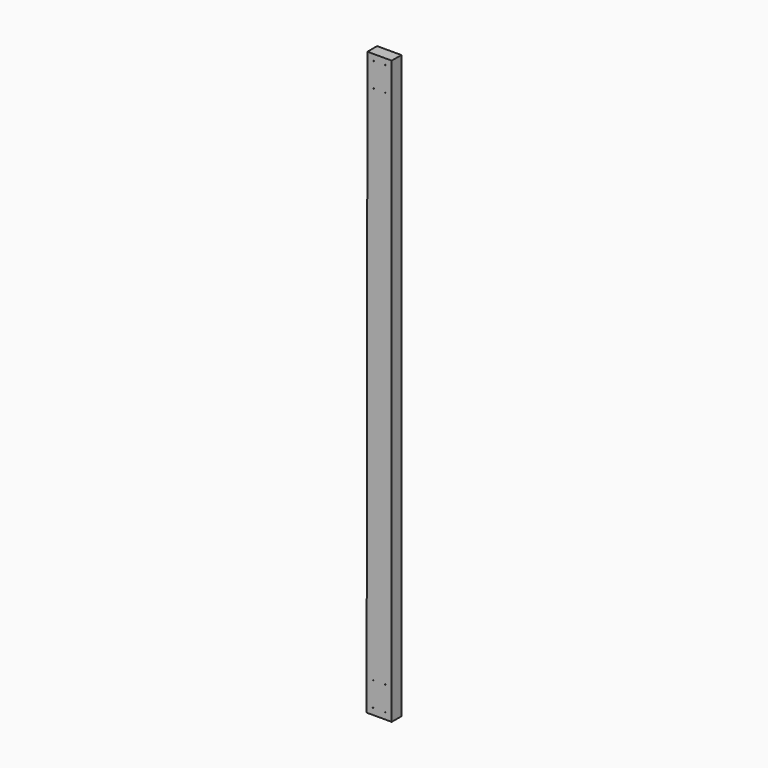
from build123d import *

# Parameters (mm, degrees)
F0_R     = 1.5875
F1_DEPTH = 50.8


with BuildPart() as f1:
    # F0 (on Front) → F1 (new body)
    with BuildSketch(Plane.XZ):
        Polygon((46.031575, 2438.4), (-55.568425, 2438.4), (-59.032303, 0), (46.031575, 0), align=None)
        with Locations((-32.006438, 26.9875)):
            Circle(F0_R, mode=Mode.SUBTRACT)
        with Locations((-31.86211, 128.587397)):
            Circle(F0_R, mode=Mode.SUBTRACT)
        with Locations((19.044075, 26.9875)):
            Circle(F0_R, mode=Mode.SUBTRACT)
        with Locations((19.044075, 128.5875)):
            Circle(F0_R, mode=Mode.SUBTRACT)
        with Locations((-28.761308, 2311.4)):
            Circle(F0_R, mode=Mode.SUBTRACT)
        with Locations((-28.61698, 2413)):
            Circle(F0_R, mode=Mode.SUBTRACT)
        with Locations((19.044075, 2311.4)):
            Circle(F0_R, mode=Mode.SUBTRACT)
        with Locations((19.044075, 2413)):
            Circle(F0_R, mode=Mode.SUBTRACT)
    extrude(amount=F1_DEPTH)


solid = f1.part
